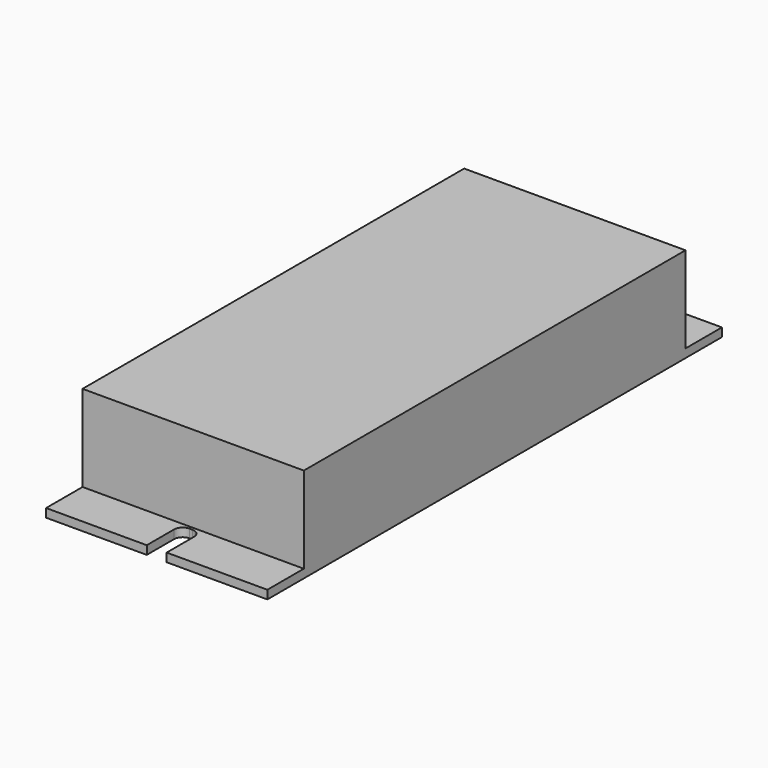
from build123d import *

# Parameters (mm, degrees)
F0_W      = 77.7
F0_H      = 167.5
F1_DEPTH  = 33.34
F2_T      = -2
F3_R      = 10
F4_DEPTH  = 25
F5_W      = 77.7
F5_H      = 16
F6_DEPTH  = 3
F8_DEPTH  = 25
F9_W      = 77.7
F9_H      = 16
F10_DEPTH = 3
F12_DEPTH = 25
F13_W     = 14
F13_H     = 18
F14_DEPTH = 25


with BuildPart() as f1:
    # F0 (on Top) → F1 (new body)
    with BuildSketch(Plane.XY):
        Rectangle(F0_W, F0_H)
    extrude(amount=F1_DEPTH)

    # F2
    f2_openings = [f1.faces().sort_by_distance(p)[0] for p in [
        (0, 0, 0),
    ]]
    offset(amount=F2_T, openings=f2_openings)

    # F3 (on face) → F4 (cut)
    with BuildSketch(Plane(origin=(-38.85, 0, 0), x_dir=(0, -1, 0), z_dir=(-1, 0, 0))):
        with Locations((-19.975796, 16.67)):
            Circle(F3_R)
        with Locations((-48.75, 16.67)):
            Circle(F3_R)
    extrude(amount=-F4_DEPTH, mode=Mode.SUBTRACT)

    # F5 (on face) → F6 (join)
    with BuildSketch(Plane(origin=(0, 0, 0), x_dir=(1, 0, 0), z_dir=(0, 0, -1))):
        with Locations((0, 91.75)):
            Rectangle(F5_W, F5_H)
    extrude(amount=-F6_DEPTH)

    # F7 (on face) → F8 (cut)
    with BuildSketch(Plane.XY.offset(3)):
        with BuildLine():
            Line((-3.5, -87.75), (-3.5, -99.75))
            Line((-3.5, -99.75), (3.5, -99.75))
            Line((3.5, -99.75), (3.5, -87.75))
            ThreePointArc((3.5, -87.75), (2.62132, -85.62868), (0.5, -84.75))
            Line((0.5, -84.75), (-0.5, -84.75))
            ThreePointArc((-0.5, -84.75), (-2.62132, -85.62868), (-3.5, -87.75))
        make_face()
    extrude(amount=-F8_DEPTH, mode=Mode.SUBTRACT)

    # F9 (on face) → F10 (join)
    with BuildSketch(Plane(origin=(0, 0, 0), x_dir=(1, 0, 0), z_dir=(0, 0, -1))):
        with Locations((0, -91.75)):
            Rectangle(F9_W, F9_H)
    extrude(amount=-F10_DEPTH)

    # F11 (on face) → F12 (cut)
    with BuildSketch(Plane(origin=(0, 0, 0), x_dir=(1, 0, 0), z_dir=(0, 0, -1))):
        with BuildLine():
            Line((-3.5, -87.75), (-3.5, -99.75))
            Line((-3.5, -99.75), (3.5, -99.75))
            Line((3.5, -99.75), (3.5, -87.75))
            ThreePointArc((3.5, -87.75), (2.62132, -85.62868), (0.5, -84.75))
            Line((0.5, -84.75), (-0.5, -84.75))
            ThreePointArc((-0.5, -84.75), (-2.62132, -85.62868), (-3.5, -87.75))
        make_face()
    extrude(amount=-F12_DEPTH, mode=Mode.SUBTRACT)

    # F13 (on face) → F14 (cut)
    with BuildSketch(Plane(origin=(0, 99.75, 0), x_dir=(-1, 0, 0), z_dir=(0, 1, 0))):
        with Locations((18.85, 9)):
            Rectangle(F13_W, F13_H)
        with Locations((-18.85, 9)):
            Rectangle(F13_W, F13_H)
        with Locations((-18.85, 9)):
            Rectangle(F13_W, F13_H)
    extrude(amount=-F14_DEPTH, mode=Mode.SUBTRACT)


solid = f1.part
